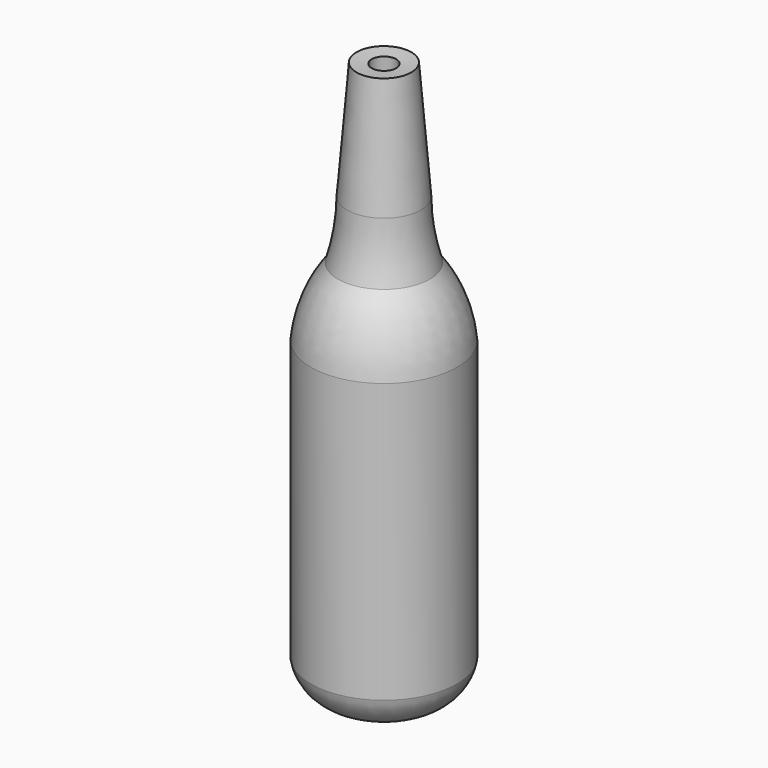
from build123d import *


with BuildPart() as f1:
    # F0 (on Front) → F1 (revolve)
    with BuildSketch(Plane.XZ):
        with BuildLine():
            Line((-9.624976, 4.035722), (0, 4.035722))
            Line((0, 4.035722), (0, 7.035722))
            Line((0, 7.035722), (-8.861714, 7.035722))
            ThreePointArc((-8.861714, 7.035722), (-10.481633, 8.559734), (-11.393906, 10.588161))
            Line((-11.393906, 10.588161), (-11.393906, 65.143411))
            ThreePointArc((-11.393906, 65.143411), (-9.78004, 71.654474), (-6.355783, 77.422746))
            ThreePointArc((-6.355783, 77.422746), (-4.858919, 83.721432), (-4.308291, 90.172079))
            Line((-4.308291, 90.172079), (-2.414047, 113.346809))
            Line((-2.414047, 113.346809), (-5.404075, 113.591207))
            Line((-5.404075, 113.591207), (-7.30709, 90.309181))
            ThreePointArc((-7.30709, 90.309181), (-7.771101, 84.515665), (-9.054899, 78.847156))
            ThreePointArc((-9.054899, 78.847156), (-12.694503, 72.447425), (-14.393906, 65.283954))
            Line((-14.393906, 65.283954), (-14.393906, 10.28396))
            ThreePointArc((-14.393906, 10.28396), (-12.756039, 6.590004), (-9.624976, 4.035722))
        make_face()
    revolve(axis=Axis((0, 0, 69.837436), (0, 0, 1)))


solid = f1.part
